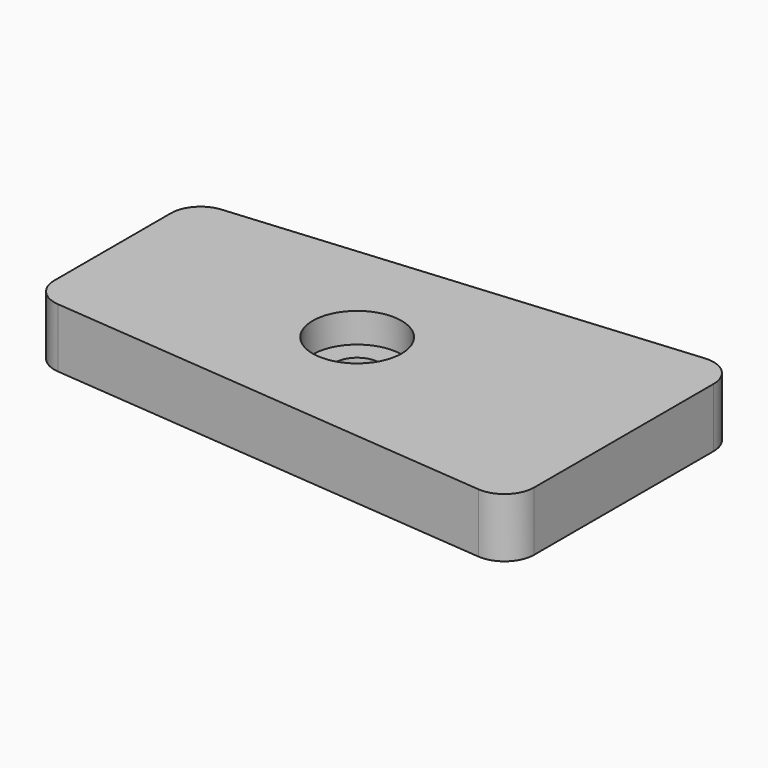
from build123d import *

# Parameters (mm, degrees)
F1_DEPTH = 4
F2_R     = 3
F2_R_2   = 1.5
F3_DEPTH = 2
F4_DEPTH = 4
F5_R     = 2
F6_R     = 2
F7_R     = 2
F8_R     = 2


with BuildPart() as f1:
    # F0 (on Top) → F1 (new body)
    with BuildSketch(Plane.XY):
        Polygon((34.5, 0), (34.5, 19.5), (0, 16.5), (0, 3), align=None)
    extrude(amount=F1_DEPTH)

    # F2 (on face) → F3 (cut)
    with BuildSketch(Plane.XY.offset(4)):
        with Locations((16.5, 9.75)):
            Circle(F2_R)
        with Locations((16.5, 9.75)):
            Circle(F2_R_2, mode=Mode.SUBTRACT)
    extrude(amount=-F3_DEPTH, mode=Mode.SUBTRACT)

    # F4 (cut): a face of the model
    f4_faces = [f1.faces().sort_by_distance(p)[0] for p in [
        (16.5, 9.75, 4),
    ]]
    extrude(f4_faces, amount=-F4_DEPTH, mode=Mode.SUBTRACT)

    # F5
    f5_edges = [f1.edges().sort_by_distance(p)[0] for p in [
        (34.5, 0, 2),
    ]]
    fillet(f5_edges, radius=F5_R)

    # F6
    f6_edges = [f1.edges().sort_by_distance(p)[0] for p in [
        (34.5, 19.5, 2),
    ]]
    fillet(f6_edges, radius=F6_R)

    # F7
    f7_edges = [f1.edges().sort_by_distance(p)[0] for p in [
        (0, 16.5, 2),
    ]]
    fillet(f7_edges, radius=F7_R)

    # F8
    f8_edges = [f1.edges().sort_by_distance(p)[0] for p in [
        (0, 3, 2),
    ]]
    fillet(f8_edges, radius=F8_R)


solid = f1.part
